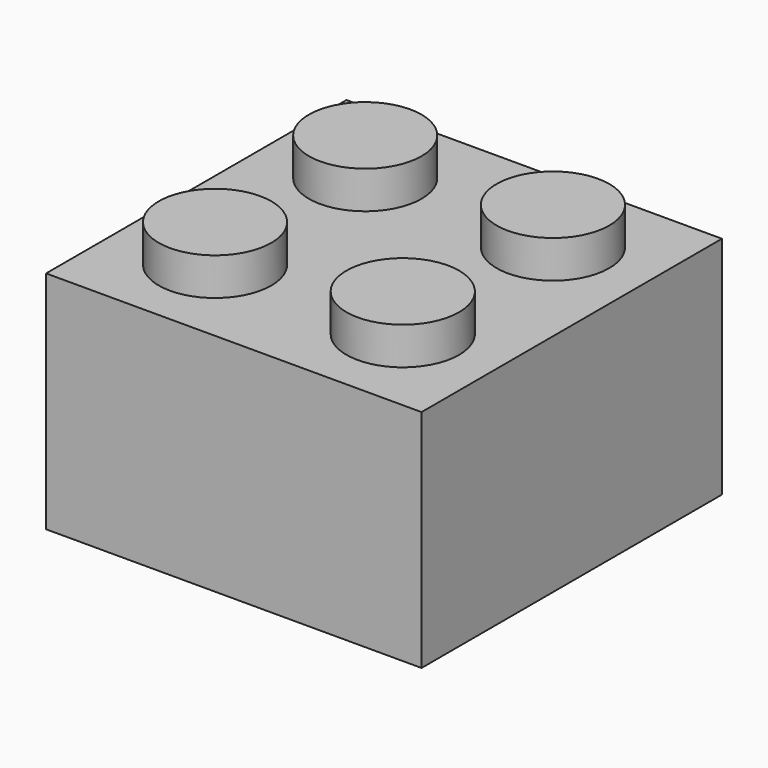
from build123d import *

# Parameters (mm, degrees)
F0_W     = 16
F0_H     = 16
F1_DEPTH = 9.6
F2_W     = 12.8
F2_H     = 12.8
F2_R     = 3.2565
F3_DEPTH = 8
F4_R     = 2.4
F5_DEPTH = 1.6
F6_R     = 1.2
F7_DEPTH = 1.6


with BuildPart() as f1:
    # F0 (on Top) → F1 (new body)
    with BuildSketch(Plane.XY):
        Rectangle(F0_W, F0_H)
    extrude(amount=F1_DEPTH)

    # F2 (on face) → F3 (cut)
    with BuildSketch(Plane(origin=(0, 0, 0), x_dir=(1, 0, 0), z_dir=(0, 0, -1))):
        Rectangle(F2_W, F2_H)
        Circle(F2_R, mode=Mode.SUBTRACT)
    extrude(amount=-F3_DEPTH, mode=Mode.SUBTRACT)

    # F4 (on face) → F5 (join)
    with BuildSketch(Plane.XY.offset(9.6)):
        with Locations((-4, 4)):
            Circle(F4_R)
        with Locations((4, 4)):
            Circle(F4_R)
        with Locations((-4, -4)):
            Circle(F4_R)
        with Locations((4, -4)):
            Circle(F4_R)
    extrude(amount=F5_DEPTH)

    # F6 (on face) → F7 (cut)
    with BuildSketch(Plane(origin=(0, 0, 8), x_dir=(1, 0, 0), z_dir=(0, 0, -1))):
        with Locations((-4, -4)):
            Circle(F6_R)
        with Locations((4, -4)):
            Circle(F6_R)
        with Locations((-4, 4)):
            Circle(F6_R)
        with Locations((4, 4)):
            Circle(F6_R)
    extrude(amount=-F7_DEPTH, mode=Mode.SUBTRACT)


solid = f1.part
